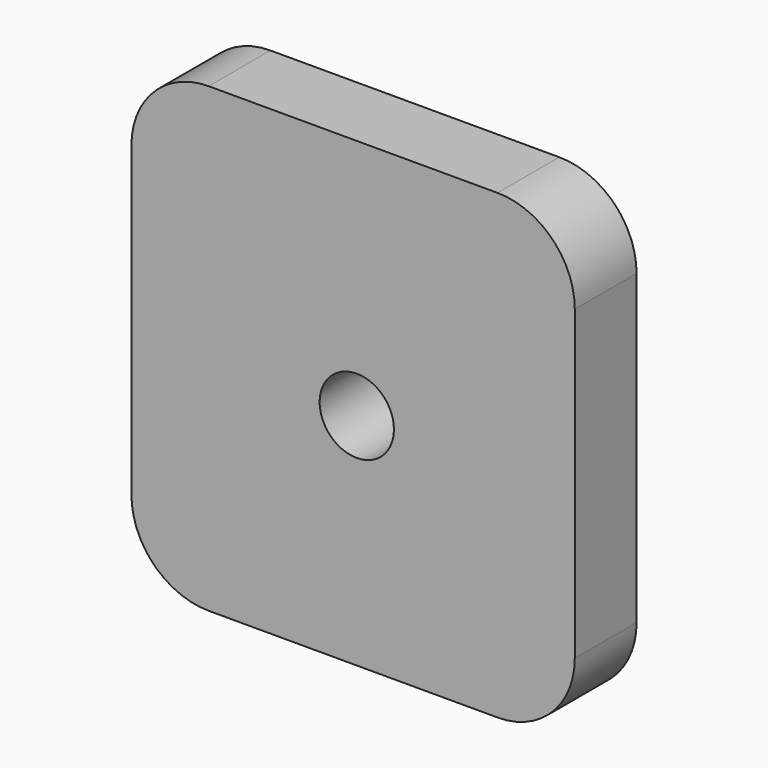
from build123d import *

# Parameters (mm, degrees)
F1_DEPTH = 6
F2_R     = 2.883162
F3_DEPTH = 30


with BuildPart() as f1:
    # F0 (on Front) → F1 (new body)
    with BuildSketch(Plane.XZ):
        with BuildLine():
            Line((-28.426227, 0), (-6, 0))
            ThreePointArc((-6, 0), (-1.757359, 1.757359), (0, 6))
            Line((0, 6), (0, 29.860658))
            ThreePointArc((0, 29.860658), (-1.757359, 34.103298), (-6, 35.860658))
            Line((-6, 35.860658), (-28.426227, 35.860658))
            ThreePointArc((-28.426227, 35.860658), (-32.668868, 34.103298), (-34.426227, 29.860658))
            Line((-34.426227, 29.860658), (-34.426227, 6))
            ThreePointArc((-34.426227, 6), (-32.668868, 1.757359), (-28.426227, 0))
        make_face()
    extrude(amount=F1_DEPTH)

    # F2 (on face) → F3 (cut)
    with BuildSketch(Plane.XZ.offset(6)):
        with Locations((-16.926229, 17.069673)):
            Circle(F2_R)
    extrude(amount=-F3_DEPTH, mode=Mode.SUBTRACT)


solid = f1.part
